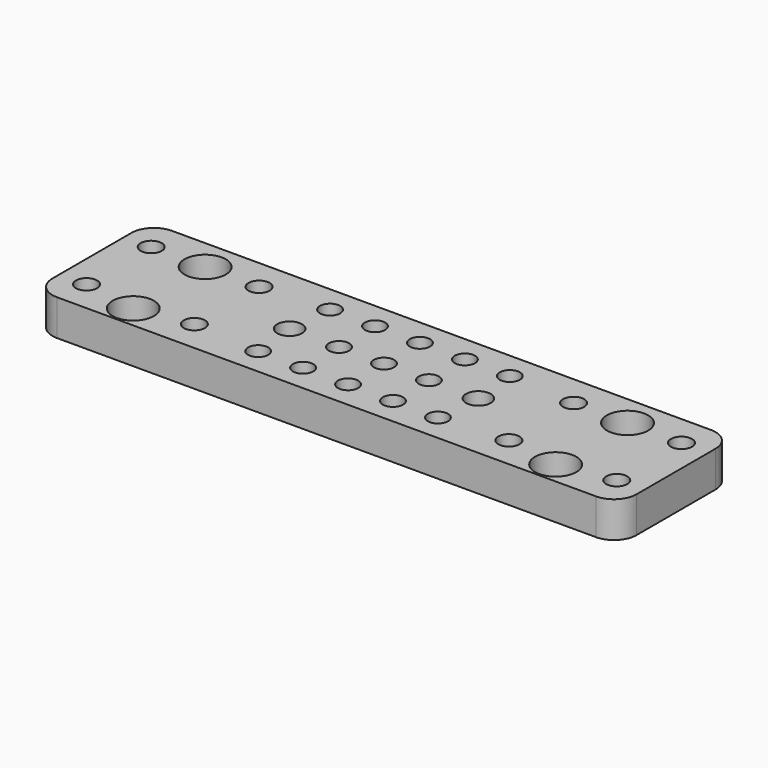
from build123d import *

# Parameters (mm, degrees)
SKETCH_W        = 130
SKETCH_H        = 32
PAD_DEPTH       = 8
SKETCH001_R     = 2.35
SKETCH001_R_2   = 2.75
POCKET_DEPTH    = 8.001
SKETCH003_R     = 4.6
POCKET001_DEPTH = 5
SKETCH002_R     = 2.25
POCKET002_DEPTH = 8.001
CHAMFER_SIZE    = 2
FILLET_R        = 5


with BuildPart() as part:
    # Sketch → Pad (new body)
    with BuildSketch(Plane.XY):
        Rectangle(SKETCH_W, SKETCH_H)
    extrude(amount=PAD_DEPTH)

    # Sketch001 → Pocket (cut, through all)
    with BuildSketch(Plane.XY.offset(8)):
        with Locations((-35, 9)):
            Circle(SKETCH001_R)
        with Locations((-58.997728, -9)):
            Circle(SKETCH001_R)
        with Locations((-59, 9)):
            Circle(SKETCH001_R)
        with Locations((35, 9)):
            Circle(SKETCH001_R)
        with Locations((59, -9)):
            Circle(SKETCH001_R)
        with Locations((59, 9)):
            Circle(SKETCH001_R)
        with Locations((-47, 9)):
            Circle(SKETCH001_R_2)
        with Locations((-47, -11)):
            Circle(SKETCH001_R_2)
        with Locations((47, 9)):
            Circle(SKETCH001_R_2)
        with Locations((47, -11)):
            Circle(SKETCH001_R_2)
        with Locations((-21, 0)):
            Circle(SKETCH001_R_2)
        with Locations((21, 0)):
            Circle(SKETCH001_R_2)
        with Locations((-35, -9)):
            Circle(SKETCH001_R)
        with Locations((35, -9)):
            Circle(SKETCH001_R)
    extrude(amount=-POCKET_DEPTH, mode=Mode.SUBTRACT)

    # Sketch003 → Pocket001 (cut)
    with BuildSketch(Plane.XY.offset(8)):
        with Locations((-47, 9)):
            Circle(SKETCH003_R)
        with Locations((47, -11)):
            Circle(SKETCH003_R)
        with Locations((47, 9)):
            Circle(SKETCH003_R)
        with Locations((-47, -11)):
            Circle(SKETCH003_R)
    extrude(amount=-POCKET001_DEPTH, mode=Mode.SUBTRACT)

    # Sketch002 → Pocket002 (cut, through all)
    with BuildSketch(Plane.XY.offset(8)):
        with Locations((-10, 10)):
            Circle(SKETCH002_R)
        with Locations((-10, 0)):
            Circle(SKETCH002_R)
        with Locations((10, 10)):
            Circle(SKETCH002_R)
        with Locations((10, 0)):
            Circle(SKETCH002_R)
        with Locations((0, 10)):
            Circle(SKETCH002_R)
        Circle(SKETCH002_R)
        with Locations((0, -10)):
            Circle(SKETCH002_R)
        with Locations((-10, -10)):
            Circle(SKETCH002_R)
        with Locations((10, -10)):
            Circle(SKETCH002_R)
        with Locations((-20, 10)):
            Circle(SKETCH002_R)
        with Locations((20, 10)):
            Circle(SKETCH002_R)
        with Locations((20, -10)):
            Circle(SKETCH002_R)
        with Locations((-20, -10)):
            Circle(SKETCH002_R)
    extrude(amount=-POCKET002_DEPTH, mode=Mode.SUBTRACT)

    # Chamfer
    chamfer_edges = [part.edges().sort_by_distance(p)[0] for p in [
        (0, 16, 0),
    ]]
    chamfer(chamfer_edges, length=CHAMFER_SIZE)

    # Fillet
    fillet_edges = [part.edges().sort_by_distance(p)[0] for p in [
        (-65, 16, 5),
        (65, 16, 5),
        (-65, -16, 4),
        (65, -16, 4),
    ]]
    fillet(fillet_edges, radius=FILLET_R)


solid = part.part
